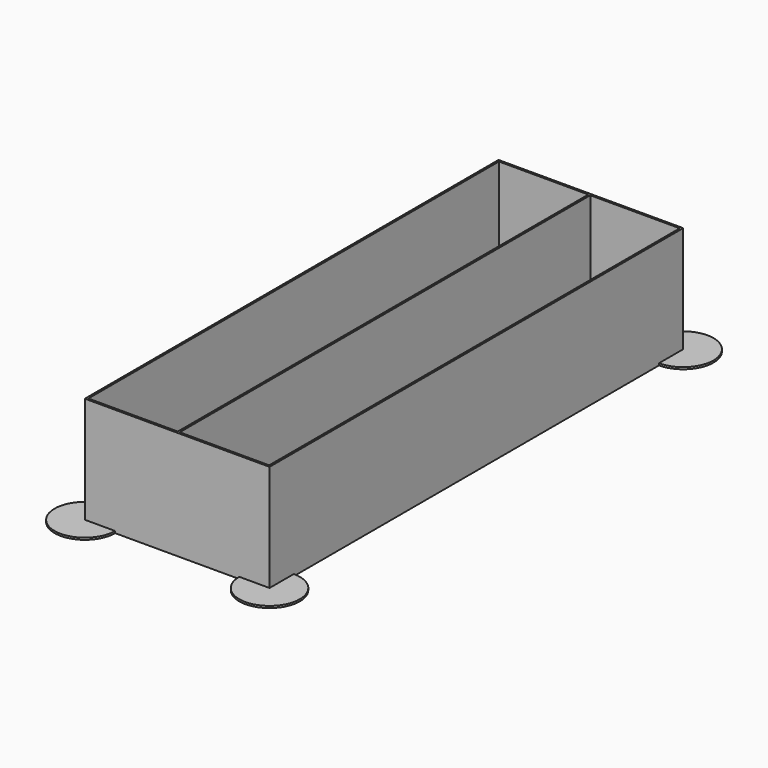
from build123d import *

# Parameters (mm, degrees)
F1_DEPTH = 0.8
F2_W     = 76.2
F2_H     = 213.36
F2_W_2   = 36.9
F2_H_2   = 211.76
F3_DEPTH = 44
F4_DEPTH = 0.8


with BuildPart() as f1:
    # F0 (on Top) → F1 (new body)
    with BuildSketch(Plane.XY):
        with BuildLine():
            ThreePointArc((0, 12.5), (8.838835, 8.838835), (12.5, 0))
            Line((12.5, 0), (63.7, 0))
            ThreePointArc((63.7, 0), (67.361165, 8.838835), (76.2, 12.5))
            Line((76.2, 12.5), (76.2, 200.86))
            ThreePointArc((76.2, 200.86), (67.361165, 204.521165), (63.7, 213.36))
            Line((63.7, 213.36), (12.5, 213.36))
            ThreePointArc((12.5, 213.36), (8.838835, 204.521165), (0, 200.86))
            Line((0, 200.86), (0, 12.5))
        make_face()
        with BuildLine():
            Line((0, 12.5), (0, 0))
            Line((0, 0), (12.5, 0))
            ThreePointArc((12.5, 0), (8.838835, 8.838835), (0, 12.5))
        make_face()
        with BuildLine():
            ThreePointArc((63.7, 213.36), (67.361165, 204.521165), (76.2, 200.86))
            Line((76.2, 200.86), (76.2, 213.36))
            Line((76.2, 213.36), (63.7, 213.36))
        make_face()
        with BuildLine():
            Line((0, 213.36), (0, 200.86))
            ThreePointArc((0, 200.86), (8.838835, 204.521165), (12.5, 213.36))
            Line((12.5, 213.36), (0, 213.36))
        make_face()
    extrude(amount=F1_DEPTH)

    # F2 (on face) → F3 (join)
    with BuildSketch(Plane.XY.offset(0.8)):
        with Locations((38.1, 106.68)):
            Rectangle(F2_W, F2_H)
        with Locations((19.25, 106.68)):
            Rectangle(F2_W_2, F2_H_2, mode=Mode.SUBTRACT)
        with Locations((56.95, 106.68)):
            Rectangle(F2_W_2, F2_H_2, mode=Mode.SUBTRACT)
    extrude(amount=F3_DEPTH)

    # F0 (on Top) → F4 (join, through all)
    with BuildSketch(Plane.XY):
        with BuildLine():
            Line((76.2, 0), (63.7, 0))
            ThreePointArc((63.7, 0), (76.2, -12.5), (88.7, 0))
            ThreePointArc((88.7, 0), (85.038835, 8.838835), (76.2, 12.5))
            Line((76.2, 12.5), (76.2, 0))
        make_face()
        with BuildLine():
            Line((12.5, 0), (0, 0))
            Line((0, 0), (0, 12.5))
            ThreePointArc((0, 12.5), (-8.838835, -8.838835), (12.5, 0))
        make_face()
        with BuildLine():
            ThreePointArc((12.5, 213.36), (-8.838835, 222.198835), (0, 200.86))
            Line((0, 200.86), (0, 213.36))
            Line((0, 213.36), (12.5, 213.36))
        make_face()
        with BuildLine():
            Line((76.2, 213.36), (76.2, 200.86))
            ThreePointArc((76.2, 200.86), (85.038835, 204.521165), (88.7, 213.36))
            ThreePointArc((88.7, 213.36), (76.2, 225.86), (63.7, 213.36))
            Line((63.7, 213.36), (76.2, 213.36))
        make_face()
        with BuildLine():
            ThreePointArc((76.2, 12.5), (67.361165, 8.838835), (63.7, 0))
            Line((63.7, 0), (76.2, 0))
            Line((76.2, 0), (76.2, 12.5))
        make_face()
        with BuildLine():
            Line((0, 12.5), (0, 0))
            Line((0, 0), (12.5, 0))
            ThreePointArc((12.5, 0), (8.838835, 8.838835), (0, 12.5))
        make_face()
        with BuildLine():
            Line((0, 213.36), (0, 200.86))
            ThreePointArc((0, 200.86), (8.838835, 204.521165), (12.5, 213.36))
            Line((12.5, 213.36), (0, 213.36))
        make_face()
        with BuildLine():
            ThreePointArc((63.7, 213.36), (67.361165, 204.521165), (76.2, 200.86))
            Line((76.2, 200.86), (76.2, 213.36))
            Line((76.2, 213.36), (63.7, 213.36))
        make_face()
    extrude(amount=F4_DEPTH)


solid = f1.part
